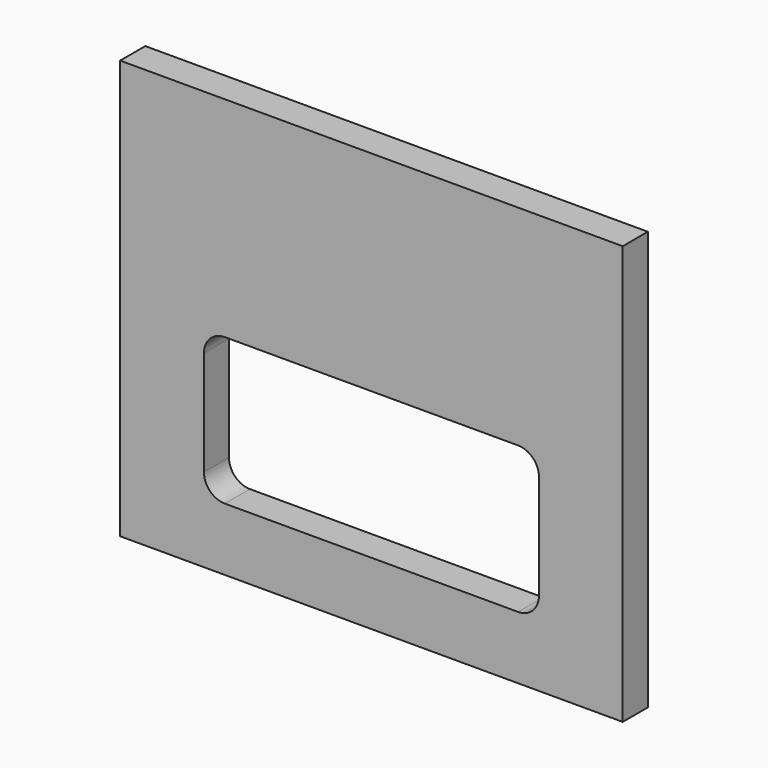
from build123d import *

# Parameters (mm, degrees)
F0_W     = 304.8
F0_H     = 254
F1_DEPTH = 19.05


with BuildPart() as f1:
    # F0 (on Front) → F1 (new body)
    with BuildSketch(Plane.XZ):
        with Locations((-269.767359, 26.605111)):
            Rectangle(F0_W, F0_H)
        with BuildLine():
            ThreePointArc((-371.367359, 13.905111), (-367.647615, 22.885367), (-358.667359, 26.605111))
            Line((-358.667359, 26.605111), (-180.867359, 26.605111))
            ThreePointArc((-180.867359, 26.605111), (-171.887103, 22.885367), (-168.167359, 13.905111))
            Line((-168.167359, 13.905111), (-168.167359, -49.594889))
            ThreePointArc((-168.167359, -49.594889), (-171.887103, -58.575145), (-180.867359, -62.294889))
            Line((-180.867359, -62.294889), (-358.667359, -62.294889))
            ThreePointArc((-358.667359, -62.294889), (-367.647615, -58.575145), (-371.367359, -49.594889))
            Line((-371.367359, -49.594889), (-371.367359, 13.905111))
        make_face(mode=Mode.SUBTRACT)
    extrude(amount=F1_DEPTH)


solid = f1.part
